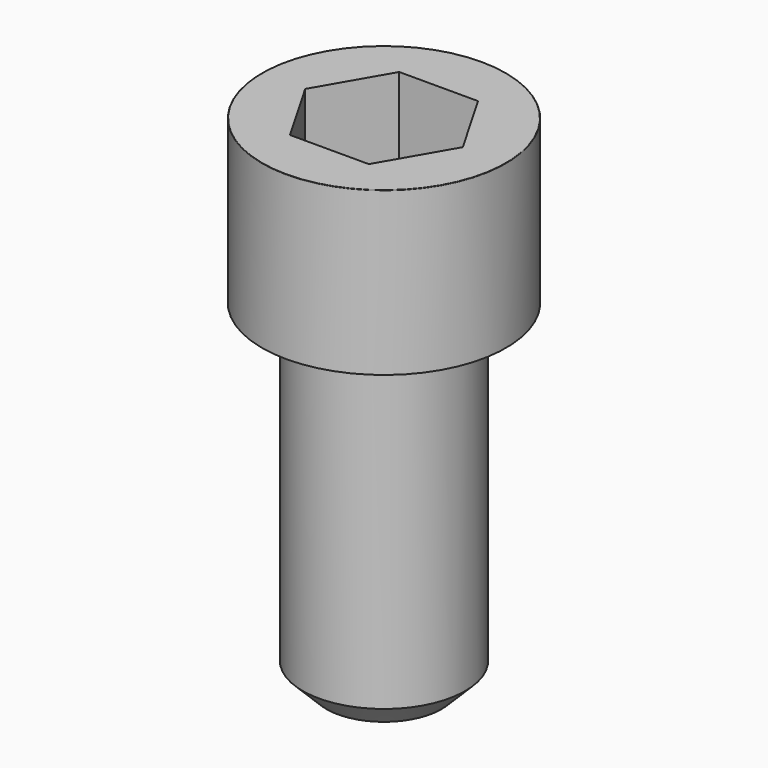
from build123d import *

# Parameters (mm, degrees)
POCKET_DEPTH = 10.07


with BuildPart() as part:
    # Sketch → Revolve (revolve)
    with BuildSketch(Plane.YZ):
        with BuildLine():
            Line((5.999, 0), (9, 0))
            Line((9, 0), (9, 11.97229))
            ThreePointArc((9, 11.97229), (8.991884, 11.991884), (8.97229, 12))
            Line((8.97229, 12), (0, 12))
            Line((0, -25), (0, 12))
            Line((4.25, -25), (0, -25))
            Line((6, -23.25), (4.25, -25))
            Line((6, -0.2), (6, -23.25))
            Line((5.999, 0), (6, -0.2))
        make_face()
    revolve(axis=Axis((0, 0, 0), (0, 0, 1)))

    # Sketch001 → Pocket (cut)
    with BuildSketch(Plane.XY.offset(12)):
        Polygon((5.813917, 0), (2.906959, 5.035), (-2.906959, 5.035), (-5.813917, 0), (-2.906959, -5.035), (2.906959, -5.035), align=None)
    extrude(amount=-POCKET_DEPTH, mode=Mode.SUBTRACT)


solid = part.part
